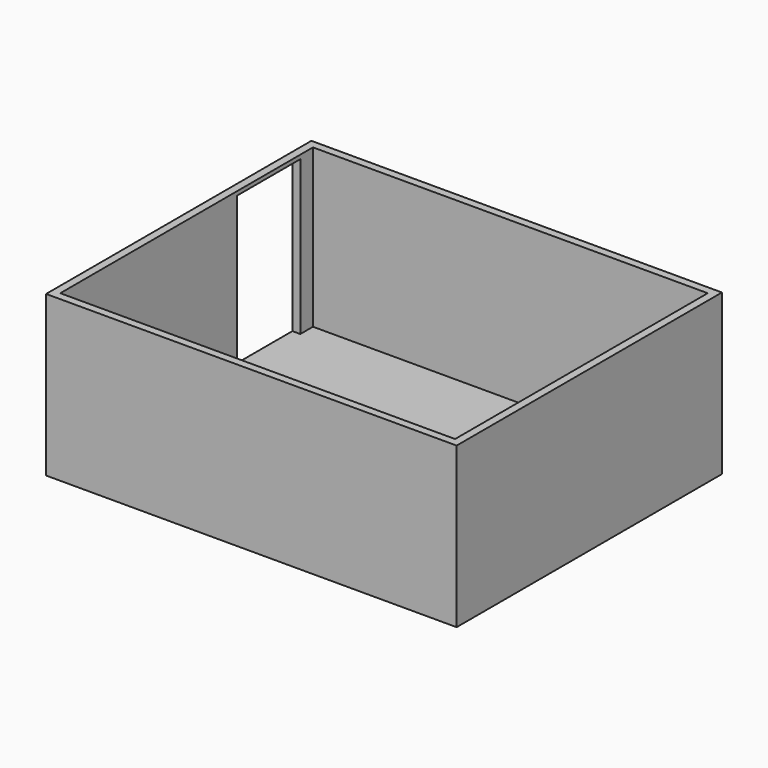
from build123d import *

# Parameters (mm, degrees)
F0_W     = 5200
F0_H     = 4200
F0_W_2   = 5000
F0_H_2   = 4000
F1_DEPTH = 2000
F2_W     = 5200
F2_H     = 4200
F2_W_2   = 5000
F2_H_2   = 4000
F3_DEPTH = 25
F4_W     = 1000
F4_H     = 1950
F5_DEPTH = 200


with BuildPart() as f1:
    # F0 (on Top) → F1 (new body)
    with BuildSketch(Plane.XY):
        Rectangle(F0_W, F0_H)
        Rectangle(F0_W_2, F0_H_2, mode=Mode.SUBTRACT)
    extrude(amount=F1_DEPTH)

    # F2 (on face) → F3 (join)
    with BuildSketch(Plane(origin=(0, 0, 0), x_dir=(1, 0, 0), z_dir=(0, 0, -1))):
        Rectangle(F2_W, F2_H)
        Rectangle(F2_W_2, F2_H_2, mode=Mode.SUBTRACT)
        Rectangle(F2_W_2, F2_H_2)
    extrude(amount=F3_DEPTH)

    # F4 (on face) → F5 (cut)
    with BuildSketch(Plane.YZ.offset(-2500)):
        with Locations((1300, 975)):
            Rectangle(F4_W, F4_H)
    extrude(amount=-F5_DEPTH, mode=Mode.SUBTRACT)


solid = f1.part
